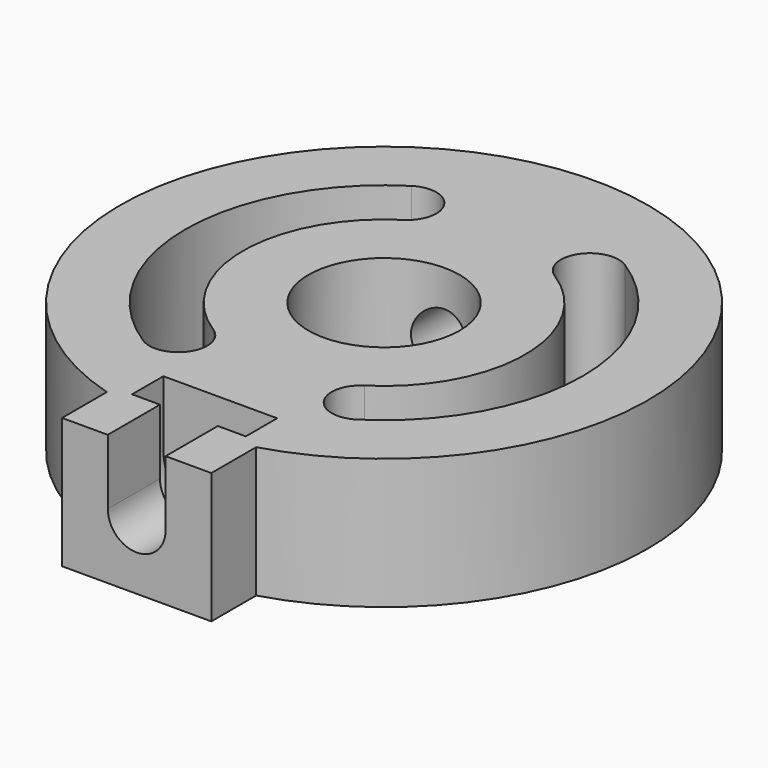
from build123d import *

# Parameters (mm, degrees)
SKETCH_R        = 4.05
EXTRUDE_DEPTH   = 7
SKETCH001_R     = 1.55
POCKET_DEPTH    = 30.723859
POCKET001_DEPTH = 3.5
POCKET002_DEPTH = 2.1


with BuildPart() as part:
    # Sketch → Extrude (new body)
    with BuildSketch(Plane.XY):
        with BuildLine():
            ThreePointArc((4, -13.572859), (0, 14.15), (-4, -13.572859))
            Line((-4, -13.572859), (-4, -16.572859))
            Line((-4, -16.572859), (4, -16.572859))
            Line((4, -16.572859), (4, -13.572859))
        make_face()
        Circle(SKETCH_R, mode=Mode.SUBTRACT)
        with BuildLine():
            ThreePointArc((-4.056612, 6.367605), (-7.55, 0), (-4.056612, -6.367605))
            ThreePointArc((-5.722241, -8.982119), (-3.58217, -8.507677), (-4.056612, -6.367605))
            ThreePointArc((-5.722241, 8.982119), (-10.65, 0), (-5.722241, -8.982119))
            ThreePointArc((-4.056612, 6.367605), (-3.58217, 8.507677), (-5.722241, 8.982119))
        make_face(mode=Mode.SUBTRACT)
        with BuildLine():
            ThreePointArc((4.056612, -6.367605), (7.55, 0), (4.056612, 6.367605))
            ThreePointArc((5.722241, 8.982119), (3.58217, 8.507677), (4.056612, 6.367605))
            ThreePointArc((5.722241, -8.982119), (10.65, 0), (5.722241, 8.982119))
            ThreePointArc((4.056612, -6.367605), (3.58217, -8.507677), (5.722241, -8.982119))
        make_face(mode=Mode.SUBTRACT)
    extrude(amount=EXTRUDE_DEPTH)

    # Sketch001 → Pocket (cut, through all)
    with BuildSketch(Plane.XZ.offset(16.572859)):
        with Locations((0, 3.5)):
            Circle(SKETCH001_R)
    extrude(amount=-POCKET_DEPTH, mode=Mode.SUBTRACT)

    # Sketch002 → Pocket001 (cut)
    with BuildSketch(Plane.XY.offset(7)):
        Polygon((-3.049999, -10.972859), (-3.049999, -13.072859), (-1.549999, -13.072859), (-1.549999, -16.572859), (1.550001, -16.572859), (1.550001, -13.072859), (3.050001, -13.072859), (3.050001, -10.972859), align=None)
    extrude(amount=-POCKET001_DEPTH, mode=Mode.SUBTRACT)

    # Sketch003 → Pocket002 (cut)
    with BuildSketch(Plane.XZ.offset(10.972859)):
        with BuildLine():
            ThreePointArc((-3.050001, 3.5), (0, 0.449999), (3.050001, 3.5))
            Line((-3.050001, 3.5), (3.050001, 3.5))
        make_face()
    extrude(amount=POCKET002_DEPTH, mode=Mode.SUBTRACT)


solid = part.part
